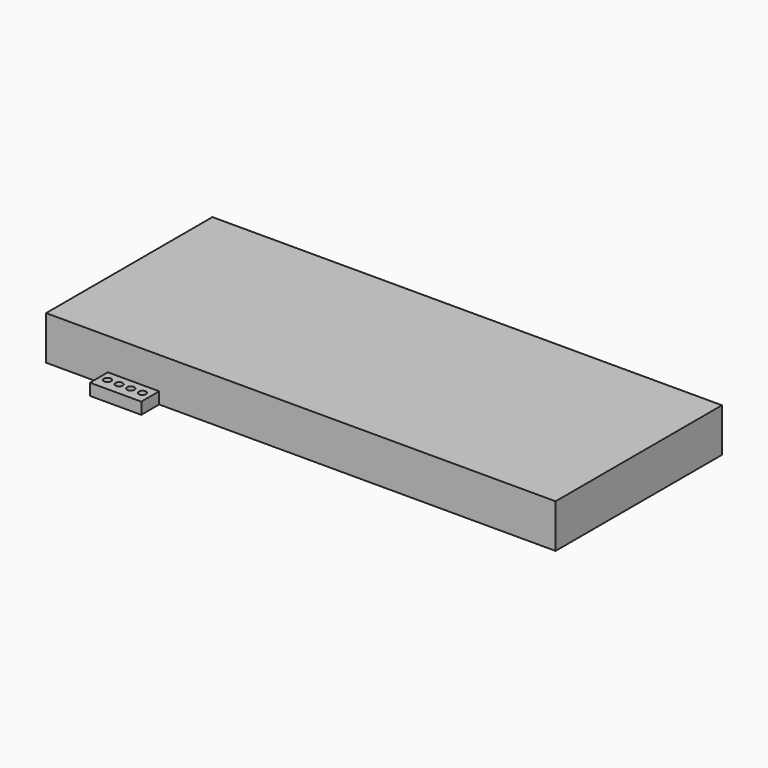
from build123d import *

# Parameters (mm, degrees)
F0_W     = 444.1798627377
F0_H     = 181.2878847122
F1_DEPTH = 38.1
F2_W     = 44.7529032826
F2_H     = 20.315527916
F3_DEPTH = 10.16
F5_D     = 6.35
F5_DEPTH = 3.81
F5_TIP   = 1.9077324654


with BuildPart() as f1:
    # F0 (on Top) → F1 (new body)
    with BuildSketch(Plane.XY):
        with Locations((19.7947770357, -9.6689611673)):
            Rectangle(F0_W, F0_H)
    extrude(amount=F1_DEPTH)


with BuildPart() as f3:
    # F2 (on Top) → F3 (new body)
    with BuildSketch(Plane.XY):
        with Locations((-126.058679074, -109.703451395)):
            Rectangle(F2_W, F2_H)
    extrude(amount=F3_DEPTH)

    # F5
    with Locations(Plane.XY.offset(10.16)):
        with Locations((-141.6299343109, -109.2652156949), (-131.4699343109, -109.2652156949), (-121.3099343109, -109.2652156949), (-111.1499343109, -109.2652156949)):
            Hole(F5_D / 2, depth=F5_DEPTH)
            with Locations((0, 0, -(F5_DEPTH + F5_TIP / 2))):  # 118° drill point
                Cone(0, F5_D / 2, F5_TIP, mode=Mode.SUBTRACT)


solid = Compound([f1.part, f3.part])
